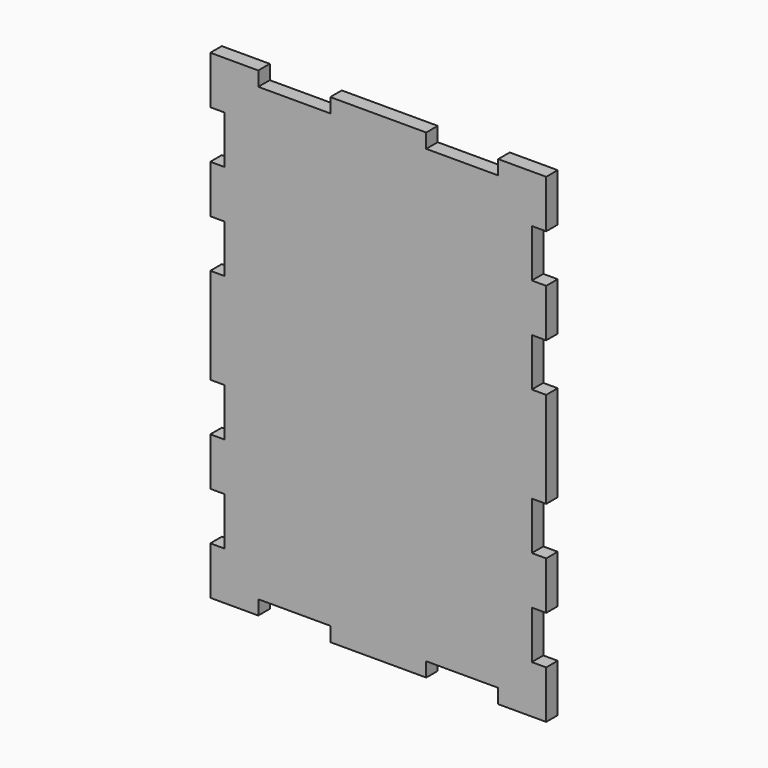
from build123d import *

# Parameters (mm, degrees)
F1_DEPTH = 3


with BuildPart() as f1:
    # F0 (on Front) → F1 (new body)
    with BuildSketch(Plane.XZ):
        Polygon((35, 40), (35, 50), (25, 50), (25, 47), (10, 47), (10, 50), (-10, 50), (-10, 47), (-25, 47), (-25, 50), (-35, 50), (-35, 40), (-32, 40), (-32, 30), (-35, 30), (-35, 20), (-32, 20), (-32, 10), (-35, 10), (-35, -10), (-32, -10), (-32, -20), (-35, -20), (-35, -30), (-32, -30), (-32, -40), (-35, -40), (-35, -50), (-25, -50), (-25, -47), (-10, -47), (-10, -50), (10, -50), (10, -47), (25, -47), (25, -50), (35, -50), (35, -40), (32, -40), (32, -30), (35, -30), (35, -20), (32, -20), (32, -10), (35, -10), (35, 10), (32, 10), (32, 20), (35, 20), (35, 30), (32, 30), (32, 40), align=None)
    extrude(amount=F1_DEPTH)


solid = f1.part
